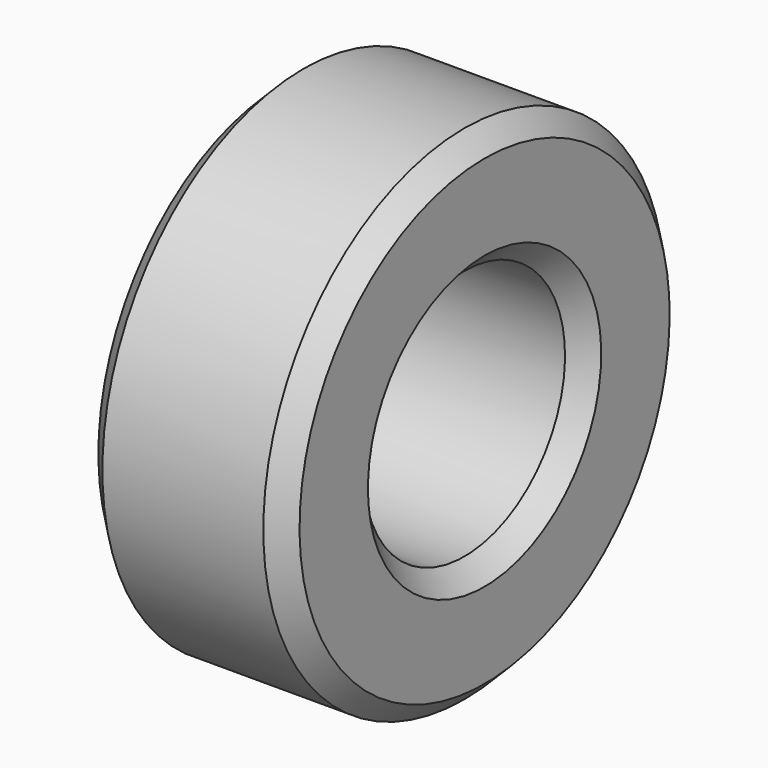
from build123d import *

# Parameters (mm, degrees)
F0_W    = 4
F0_H    = 2.5
F2_SIZE = 0.4


with BuildPart() as f1:
    # F0 (on Front) → F1 (revolve)
    with BuildSketch(Plane.XZ):
        with Locations((2, 3.75)):
            Rectangle(F0_W, F0_H)
    revolve(axis=Axis((1.361359, 0, 0), (1, 0, 0)))

    # F2
    f2_edges = [f1.edges().sort_by_distance(p)[0] for p in [
        (0, 0, -2.5),
        (4, 0, -2.5),
        (2, 0, 2.5),
        (4, 0, -5),
        (0, 0, -5),
        (2, 0, 5),
    ]]
    chamfer(f2_edges, length=F2_SIZE)


solid = f1.part
